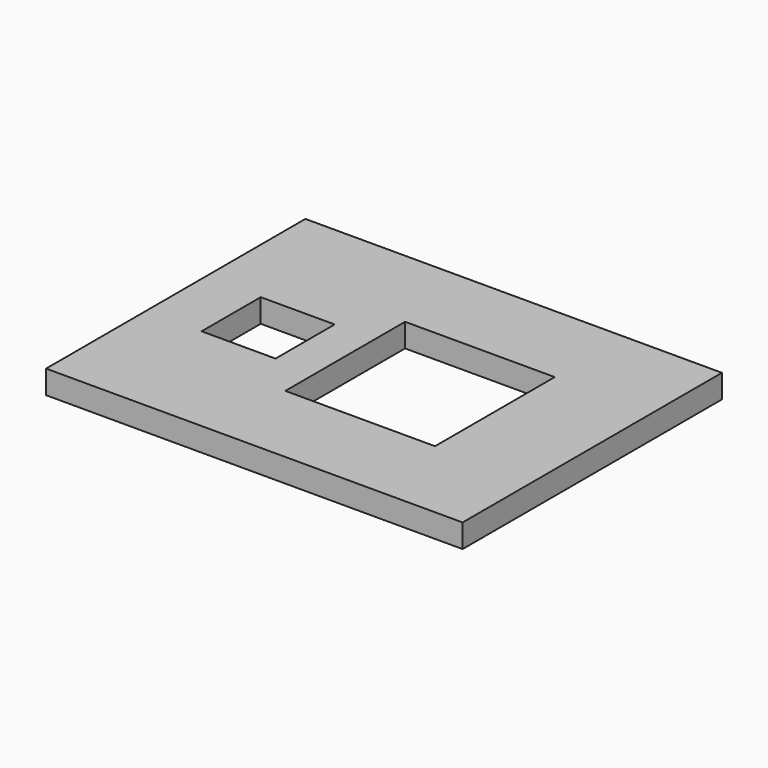
from build123d import *

# Parameters (mm, degrees)
F0_W     = 20
F0_H     = 20
F0_W_2   = 40.5
F0_H_2   = 40.5
F0_W_3   = 6.35
F0_H_3   = 6.35
F1_DEPTH = 6.35


with BuildPart() as f1:
    # F0 (on Top) → F1 (new body)
    with BuildSketch(Plane.XY):
        Polygon((-50, -37.5), (50, -37.5), (50, -20.25), (50, 37.5), (-50, 37.5), align=None)
        with Locations((-31.35, 0)):
            Rectangle(F0_W, F0_H, mode=Mode.SUBTRACT)
        with Locations((9.75, 0)):
            Rectangle(F0_W_2, F0_H_2, mode=Mode.SUBTRACT)
        with Locations((-53.175, 40.675)):
            Rectangle(F0_W_3, F0_H_3)
        Polygon((50, -20.25), (50, -37.5), (56.35, -37.5), (56.35, 43.85), (-50, 43.85), (-50, 37.5), (50, 37.5), align=None)
        Polygon((50, -43.85), (50, -37.5), (-50, -37.5), (-50, 37.5), (-56.35, 37.5), (-56.35, -43.85), align=None)
        with Locations((53.175, -40.675)):
            Rectangle(F0_W_3, F0_H_3)
    extrude(amount=F1_DEPTH)


solid = f1.part
